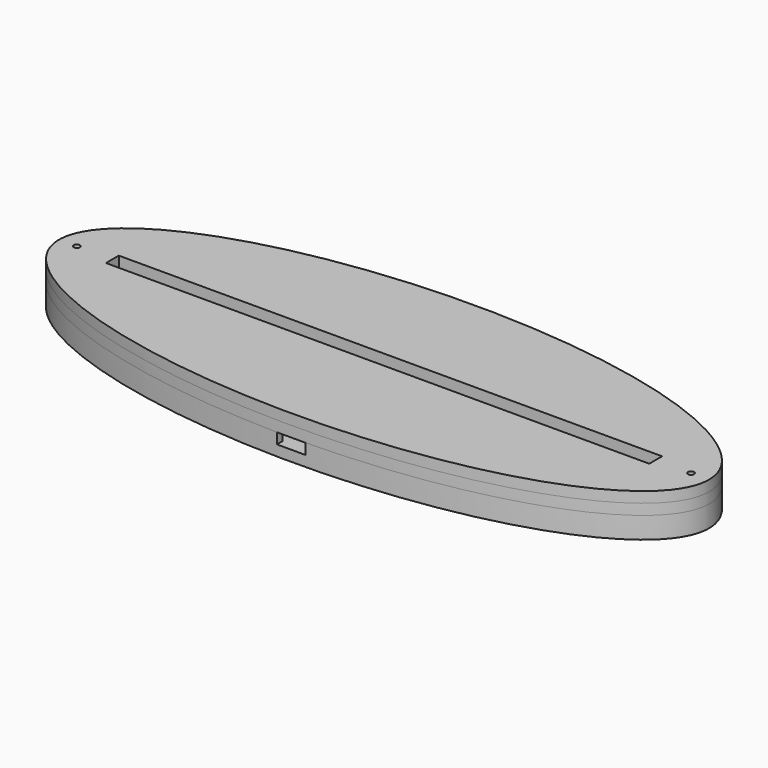
from build123d import *

# Parameters (mm, degrees)
PAD_DEPTH       = 6
SKETCH001_W     = 167
SKETCH001_H     = 10
POCKET_DEPTH    = 3
SKETCH002_W     = 18
SKETCH002_H     = 20
POCKET001_DEPTH = 3
SKETCH003_W     = 12
SKETCH003_H     = 15.5
SKETCH003_W_2   = 8
SKETCH003_H_2   = 2.1
POCKET002_DEPTH = 3
PAD001_DEPTH    = 3
SKETCH005_W     = 164.15
SKETCH005_H     = 4.44
POCKET003_DEPTH = 3
SKETCH006_W     = 152.15
SKETCH006_H     = 4.5
PAD002_DEPTH    = 3
SKETCH007_R     = 0.85
POCKET004_DEPTH = 399.26835


with BuildPart() as part:
    # Sketch → Pad (new body)
    with BuildSketch(Plane.XY):
        with BuildLine():
            add(Edge.make_bspline(
                [(91.001374, 0), (91.001374, 56.291651), (-45.500687, 28.145826), (-182.002747, 0), (-45.500687, -28.145826), (91.001374, -56.291651), (91.001374, 0)],
                knots=[0, 0, 0, 2.094395, 2.094395, 4.18879, 4.18879, 6.283185, 6.283185, 6.283185], degree=2, weights=[1, 0.5, 1, 0.5, 1, 0.5, 1]))
        make_face()
    extrude(amount=PAD_DEPTH)

    # Sketch001 (on Face3 of Pad) → Pocket (cut)
    with BuildSketch(Plane.XY.offset(6)):
        Rectangle(SKETCH001_W, SKETCH001_H)
    extrude(amount=-POCKET_DEPTH, mode=Mode.SUBTRACT)

    # Sketch002 (on Face3 of Pocket) → Pocket001 (cut)
    with BuildSketch(Plane.XY.offset(6)):
        with Locations((0, -20.5)):
            Rectangle(SKETCH002_W, SKETCH002_H)
    extrude(amount=-POCKET001_DEPTH, mode=Mode.SUBTRACT)

    # Sketch003 (on Face3 of Pocket001) → Pocket002 (cut)
    with BuildSketch(Plane.XY.offset(6)):
        with Locations((0, -2.75)):
            Rectangle(SKETCH003_W, SKETCH003_H)
        with Locations((0, -31.55)):
            Rectangle(SKETCH003_W_2, SKETCH003_H_2)
    extrude(amount=-POCKET002_DEPTH, mode=Mode.SUBTRACT)

    # Sketch004 (on Face3 of Pocket002) → Pad001 (join)
    with BuildSketch(Plane.XY.offset(6)):
        with BuildLine():
            add(Edge.make_bspline(
                [(91.001374, 0), (91.001374, 56.291651), (-45.500687, 28.145826), (-182.002747, 0), (-45.500687, -28.145826), (91.001374, -56.291651), (91.001374, 0)],
                knots=[0, 0, 0, 2.094395, 2.094395, 4.18879, 4.18879, 6.283185, 6.283185, 6.283185], degree=2, weights=[1, 0.5, 1, 0.5, 1, 0.5, 1]))
        make_face()
    extrude(amount=PAD001_DEPTH)

    # Sketch005 (on Face8 of Pad001) → Pocket003 (cut)
    with BuildSketch(Plane.XY.offset(9)):
        Rectangle(SKETCH005_W, SKETCH005_H)
    extrude(amount=-POCKET003_DEPTH, mode=Mode.SUBTRACT)

    # Sketch006 (on Face8 of Pocket003) → Pad002 (join)
    with BuildSketch(Plane.XY.offset(9)):
        with BuildLine():
            add(Edge.make_bspline(
                [(91.001374, 0), (91.001374, 56.291651), (-45.500687, 28.145826), (-182.002747, 0), (-45.500687, -28.145826), (91.001374, -56.291651), (91.001374, 0)],
                knots=[0, 0, 0, 2.094395, 2.094395, 4.18879, 4.18879, 6.283185, 6.283185, 6.283185], degree=2, weights=[1, 0.5, 1, 0.5, 1, 0.5, 1]))
        make_face()
        Rectangle(SKETCH006_W, SKETCH006_H, mode=Mode.SUBTRACT)
    extrude(amount=PAD002_DEPTH)

    # Sketch007 (on Face12 of Pad002) → Pocket004 (cut, through all)
    with BuildSketch(Plane.XY.offset(12)):
        with Locations((-86, 0)):
            Circle(SKETCH007_R)
    pocket004 = extrude(amount=-POCKET004_DEPTH, mode=Mode.SUBTRACT)

    # Mirrored: Pocket004 across Sketch007 V_Axis
    add(pocket004.mirror(Plane(origin=(0, 0, 12), x_dir=(0, 0, 1), z_dir=(1, 0, 0))), mode=Mode.SUBTRACT)


solid = part.part
